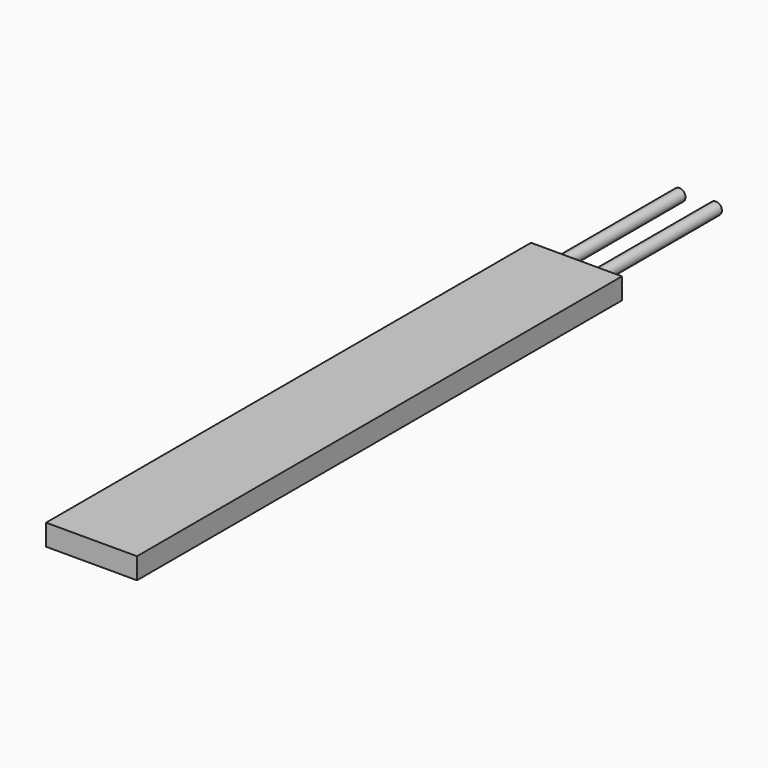
from build123d import *

# Parameters (mm, degrees)
F0_W     = 15
F0_H     = 100
F1_DEPTH = 1.75
F2_R     = 1
F3_DEPTH = 25


with BuildPart() as f1:
    # F0 (on Top) → F1 (new body, symmetric)
    with BuildSketch(Plane.XY):
        Rectangle(F0_W, F0_H)
    extrude(amount=F1_DEPTH, both=True)

    # F2 (on face) → F3 (join)
    with BuildSketch(Plane(origin=(0, 50, 0), x_dir=(-1, 0, 0), z_dir=(0, 1, 0))):
        with Locations((3, 0)):
            Circle(F2_R)
        with Locations((-3, 0)):
            Circle(F2_R)
    extrude(amount=F3_DEPTH)


solid = f1.part
